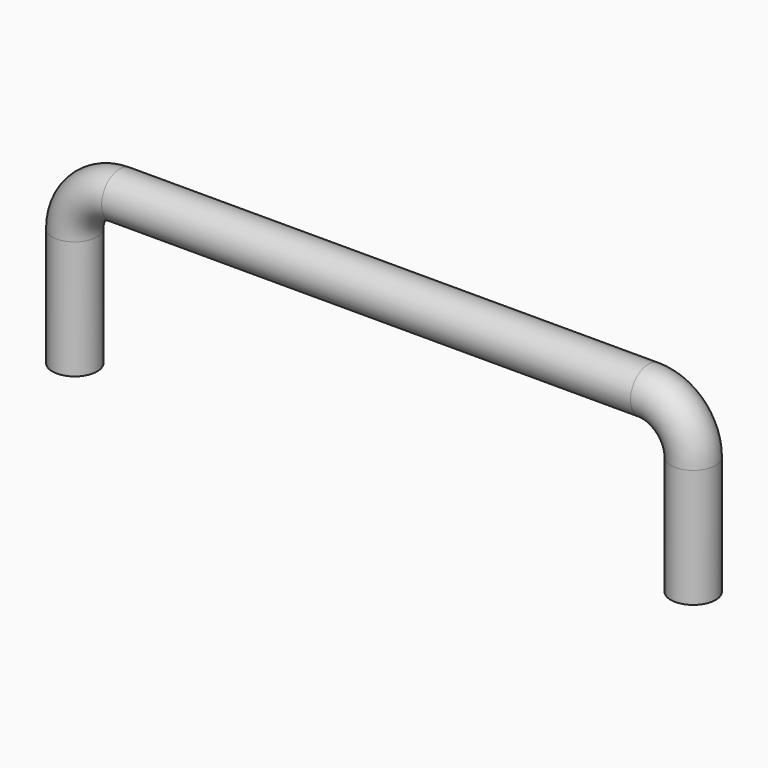
from build123d import *

# Parameters (mm, degrees)
F1_R = 25.4


with BuildPart() as f2:
    # F2: sweep along a path in F0
    with BuildLine(Plane.XZ) as f2_path:
        Line((350.21433, 0), (350.21433, 134.1110275507))
        ThreePointArc((350.21433, 134.1110275507), (335.3353544843, 170.032052035), (299.41433, 184.9110275507))
        Line((299.41433, 184.9110275507), (-299.41433, 184.9110275507))
        ThreePointArc((-299.41433, 184.9110275507), (-335.3353544843, 170.032052035), (-350.21433, 134.1110275507))
        Line((-350.21433, 134.1110275507), (-350.21433, 0))
    # F1 (on Top) → F2 (sweep)
    with BuildSketch(Plane.XY):
        with Locations((350.21433, 0)):
            Circle(F1_R)
    sweep(path=f2_path.line)


solid = f2.part
